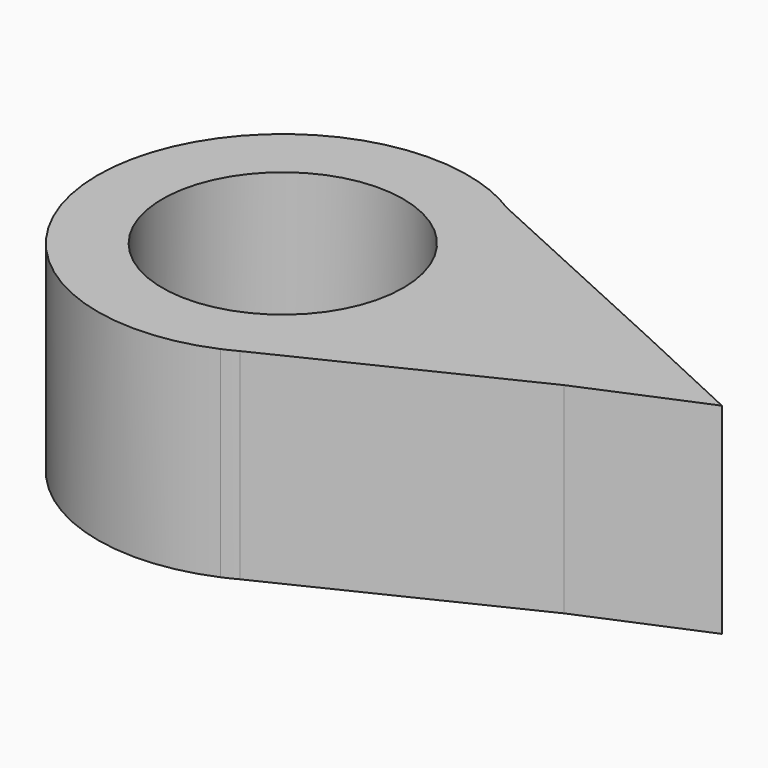
from build123d import *

# Parameters (mm, degrees)
F0_R     = 30.447507
F1_DEPTH = 50.8


with BuildPart() as f1:
    # F0 (on Top) → F1 (new body)
    with BuildSketch(Plane.XY):
        Circle(F0_R)
        with BuildLine():
            ThreePointArc((22.158063, -41.202629), (40.157528, -24.000195), (46.782864, 0))
            ThreePointArc((46.782864, 0), (40.969486, 22.586226), (24.974127, 39.559188))
            Line((24.974127, 39.559188), (13.576085, 44.769703))
            ThreePointArc((13.576085, 44.769703), (-46.706625, -2.669747), (18.589059, -42.931146))
            Line((18.589059, -42.931146), (22.158063, -41.202629))
        make_face()
        Circle(F0_R, mode=Mode.SUBTRACT)
        with BuildLine():
            ThreePointArc((24.974127, 39.559188), (40.969486, 22.586226), (46.782864, 0))
            Line((46.782864, 0), (81.176508, 0))
            Line((81.176508, 0), (81.176508, 13.866764))
            Line((81.176508, 13.866764), (24.974127, 39.559188))
        make_face()
        with BuildLine():
            Line((81.176508, 0), (46.782864, 0))
            ThreePointArc((46.782864, 0), (40.157528, -24.000195), (22.158063, -41.202629))
            Line((22.158063, -41.202629), (81.176508, -12.619201))
            Line((81.176508, -12.619201), (81.176508, 0))
        make_face()
        with BuildLine():
            Line((13.576085, 44.769703), (24.974127, 39.559188))
            ThreePointArc((24.974127, 39.559188), (19.450375, 42.547848), (13.576085, 44.769703))
        make_face()
        with BuildLine():
            ThreePointArc((18.589059, -42.931146), (20.391884, -42.104721), (22.158063, -41.202629))
            Line((22.158063, -41.202629), (18.589059, -42.931146))
        make_face()
        Polygon((81.176508, 13.866764), (81.176508, 0), (111.018896, 0), align=None)
        Polygon((111.018896, 0), (81.176508, 0), (81.176508, -12.619201), align=None)
    extrude(amount=F1_DEPTH)


solid = f1.part
